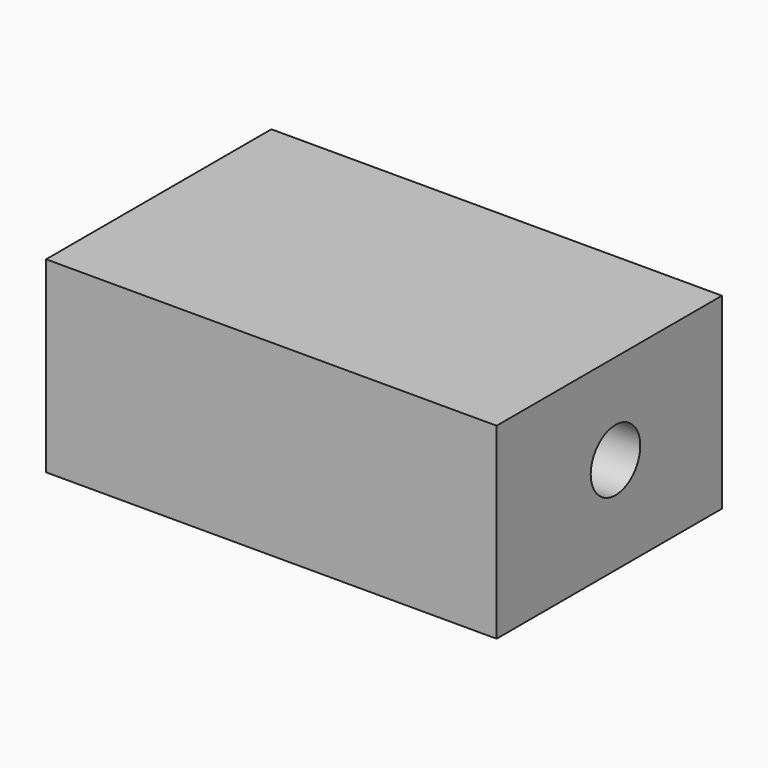
from build123d import *

# Parameters (mm, degrees)
F0_W     = 24
F0_H     = 15
F1_DEPTH = 9.99
F3_D     = 3.3


with BuildPart() as f1:
    # F0 (on Top) → F1 (new body)
    with BuildSketch(Plane.XY):
        with Locations((-12, 23.601964)):
            Rectangle(F0_W, F0_H)
    extrude(amount=F1_DEPTH)

    # F3 (through all)
    with Locations(Plane.YZ):
        with Locations((24.015915, 5.164286)):
            Hole(F3_D / 2)


solid = f1.part
